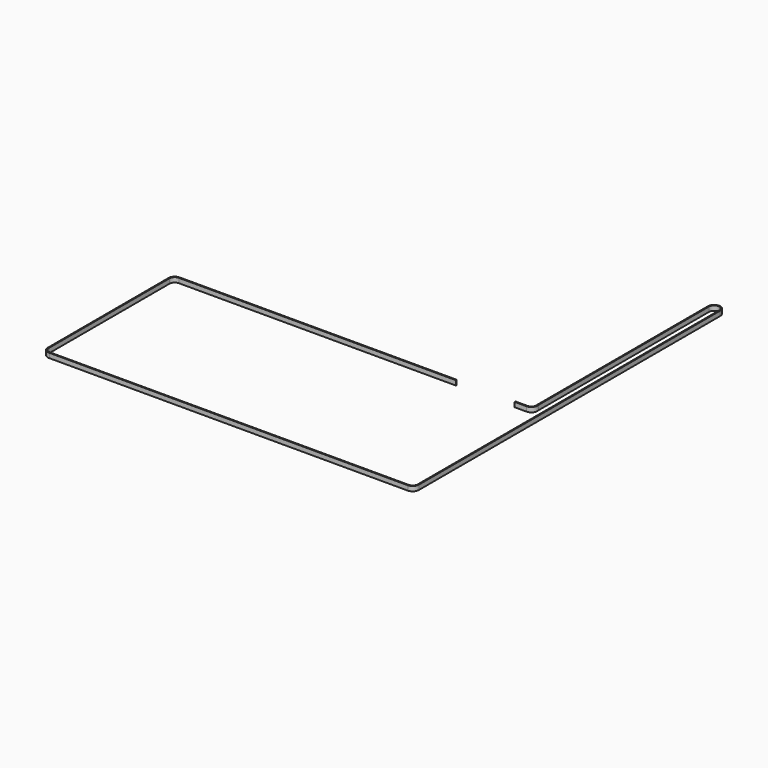
from build123d import *

# Parameters (mm, degrees)
F1_DEPTH = 6


with BuildPart() as f1:
    # F0 (on Top) → F1 (new body)
    with BuildSketch(Plane.XY):
        with BuildLine():
            ThreePointArc((-460.478625, -116.977697), (-465.074819, -115.073891), (-466.978625, -110.477697))
            Line((-466.978625, -110.477697), (-466.978625, 81.872303))
            ThreePointArc((-466.978625, 81.872303), (-465.074819, 86.468497), (-460.478625, 88.372303))
            Line((-460.478625, 88.372303), (-243.538855, 88.372303))
            Line((-243.538855, 88.372303), (-107.556077, 88.372303))
            Line((-107.556077, 88.372303), (-107.556077, 89.672303))
            Line((-107.556077, 89.672303), (-442.939144, 89.672303))
            Line((-442.939144, 89.672303), (-460.191501, 89.667017))
            ThreePointArc((-460.191501, 89.667017), (-465.787292, 87.587026), (-468.273338, 82.159427))
            Line((-468.273338, 82.159427), (-468.228486, -111.360677))
            ThreePointArc((-468.228486, -111.360677), (-465.334242, -116.582037), (-459.595644, -118.227558))
            Line((-459.595644, -118.227558), (-3.460598, -118.277697))
            ThreePointArc((-3.460598, -118.277697), (2.054834, -115.99313), (4.339402, -110.477697))
            Line((4.339402, -110.477697), (4.339402, 369.522303))
            ThreePointArc((4.339402, 369.522303), (-3.460598, 377.322303), (-11.260598, 369.522303))
            Line((-11.260598, 369.522303), (-11.260598, 94.554604))
            ThreePointArc((-11.260598, 94.554604), (-13.572677, 91.035911), (-17.556077, 89.672303))
            Line((-17.556077, 89.672303), (-32.556077, 89.672303))
            Line((-32.556077, 89.672303), (-32.556077, 88.372303))
            Line((-32.556077, 88.372303), (-17.556077, 88.372303))
            ThreePointArc((-17.556077, 88.372303), (-11.445398, 91.324664), (-9.960598, 97.946763))
            Line((-9.960598, 97.946763), (-9.960598, 369.522303))
            ThreePointArc((-9.960598, 369.522303), (-3.460598, 376.022303), (3.039402, 369.522303))
            Line((3.039402, 369.522303), (3.039402, -110.477697))
            ThreePointArc((3.039402, -110.477697), (1.135596, -115.073891), (-3.460598, -116.977697))
            Line((-3.460598, -116.977697), (-460.478625, -116.977697))
        make_face()
    extrude(amount=F1_DEPTH)


solid = f1.part
